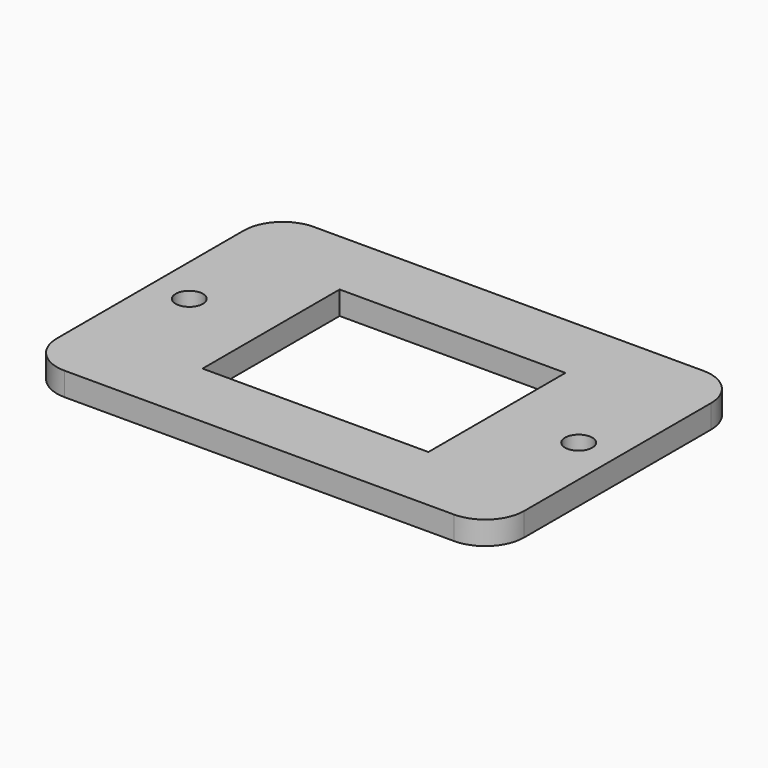
from build123d import *

# Parameters (mm, degrees)
F0_W     = 60
F0_H     = 40
F0_R     = 1.75
F0_W_2   = 29
F0_H_2   = 22
F1_DEPTH = 3
F2_R     = 5


with BuildPart() as f1:
    # F0 (on Top) → F1 (new body)
    with BuildSketch(Plane.XY):
        Rectangle(F0_W, F0_H)
        with Locations((-25, 0)):
            Circle(F0_R, mode=Mode.SUBTRACT)
        Rectangle(F0_W_2, F0_H_2, mode=Mode.SUBTRACT)
        with Locations((25, 0)):
            Circle(F0_R, mode=Mode.SUBTRACT)
    extrude(amount=F1_DEPTH)

    # F2
    f2_edges = [f1.edges().sort_by_distance(p)[0] for p in [
        (-30, -20, 1.5),
        (-30, 20, 1.5),
        (30, 20, 1.5),
        (30, -20, 1.5),
    ]]
    fillet(f2_edges, radius=F2_R)


solid = f1.part
